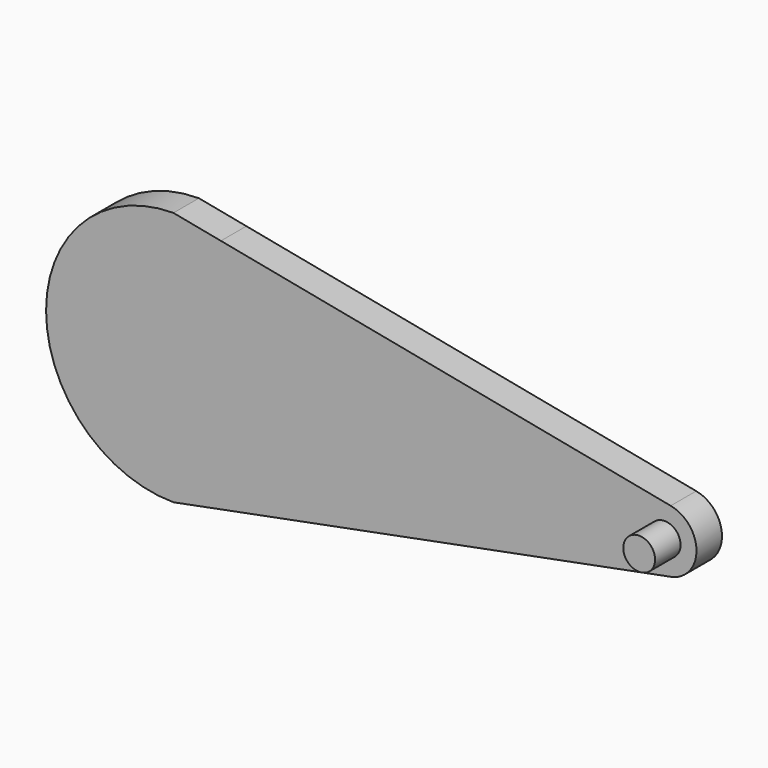
from build123d import *

# Parameters (mm, degrees)
F1_DEPTH = 3.175
F2_R     = 1.5875
F3_DEPTH = 3.175


with BuildPart() as f1:
    # F0 (on Front) → F1 (new body)
    with BuildSketch(Plane.XZ):
        with BuildLine():
            Line((49.58441, 3.117319), (4.732063, 11.785482))
            Line((4.732063, 11.785482), (0, 12.7))
            ThreePointArc((0, 12.7), (-12.7, 0), (0, -12.7))
            Line((0, -12.7), (4.732063, -11.785482))
            Line((4.732063, -11.785482), (49.58441, -3.117319))
            ThreePointArc((49.58441, -3.117319), (52.156957, 0), (49.58441, 3.117319))
        make_face()
    extrude(amount=F1_DEPTH)

    # F2 (on face) → F3 (join)
    with BuildSketch(Plane.XZ.offset(3.175)):
        with Locations((48.981957, 0)):
            Circle(F2_R)
    extrude(amount=F3_DEPTH)


solid = f1.part
